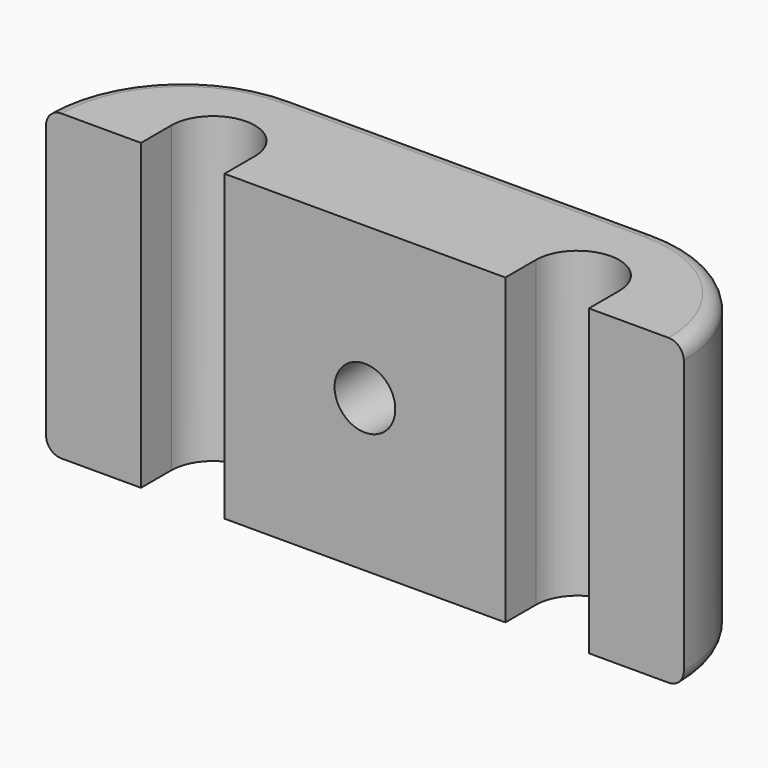
from build123d import *

# Parameters (mm, degrees)
PAD_DEPTH       = 20
SKETCH001_R     = 5
POCKET_DEPTH    = 4
SKETCH002_R     = 2
POCKET001_DEPTH = 5
FILLET_R        = 1
FILLET001_R     = 1


with BuildPart() as part:
    # Sketch → Pad (new body)
    with BuildSketch(Plane.XY):
        with BuildLine():
            Line((0, 0), (0, 9))
            Line((0, 9), (-12, 9))
            ThreePointArc((-12, 9), (-18.363961, 6.363961), (-21, 0))
            Line((-21, 0), (-14.75, 0))
            Line((-14.75, 0), (-14.75, 2.499989))
            ThreePointArc((-9.25, 2.499989), (-12, 5.25), (-14.75, 2.499989))
            Line((-9.25, 0), (-9.25, 2.499989))
            Line((0, 0), (-9.25, 0))
        make_face()
    extrude(amount=PAD_DEPTH)

    # Mirrored: part across YZ


with BuildPart() as part_1:
    add(part.part)
    add(part.part.mirror(Plane.YZ))

    # Sketch001 (on Face1 of Mirrored) → Pocket (cut)
    with BuildSketch(Plane(origin=(0, 9, 0), x_dir=(-1, 0, 0), z_dir=(0, 1, 0))):
        with Locations((0, 10)):
            Circle(SKETCH001_R)
    extrude(amount=-POCKET_DEPTH, mode=Mode.SUBTRACT)

    # Sketch002 (on Face15 of Pocket) → Pocket001 (cut)
    with BuildSketch(Plane(origin=(0, 5, 0), x_dir=(-1, 0, 0), z_dir=(0, 1, 0))):
        with Locations((0, 10)):
            Circle(SKETCH002_R)
    extrude(amount=-POCKET001_DEPTH, mode=Mode.SUBTRACT)

    # Fillet
    fillet_edges = [part_1.edges().sort_by_distance(p)[0] for p in [
        (-18.363961, 6.363961, 20),
        (-6, 9, 20),
        (6, 9, 20),
        (18.363961, 6.363961, 20),
        (-18.363961, 6.363961, 0),
        (-6, 9, 0),
        (6, 9, 0),
        (18.363961, 6.363961, 0),
    ]]
    fillet(fillet_edges, radius=FILLET_R)

    # Fillet001
    fillet001_edges = [part_1.edges().sort_by_distance(p)[0] for p in [
        (5, 9, 10),
    ]]
    fillet(fillet001_edges, radius=FILLET001_R)


solid = part_1.part
